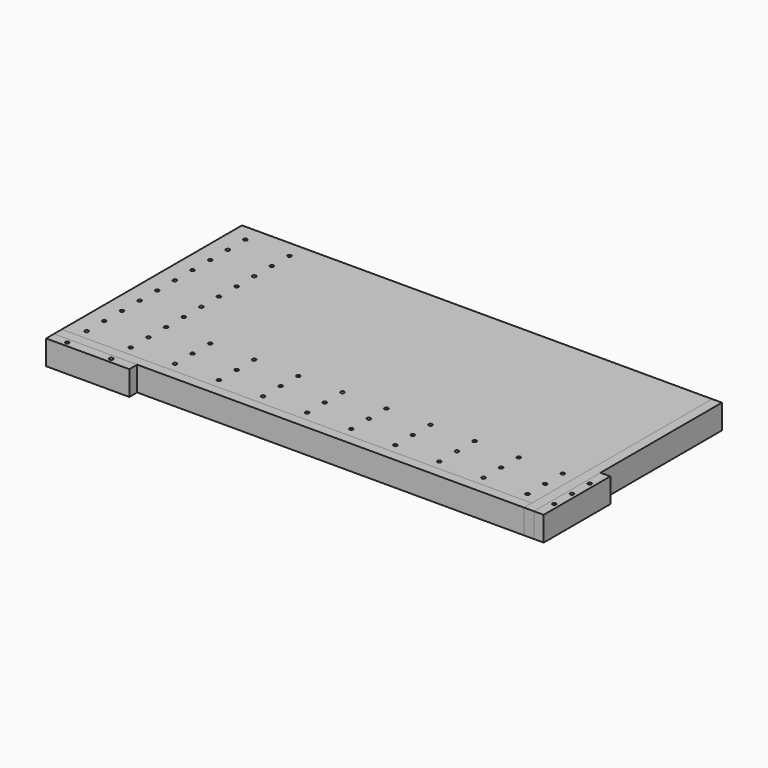
from build123d import *

# Parameters (mm, degrees)
F0_W      = 2438.4
F0_H      = 76.2
F1_DEPTH  = 584.2
F2_W      = 2438.4
F2_H      = 50.8
F3_DEPTH  = 127
F5_DEPTH  = 127
F6_W      = 431.8
F6_H      = 50.8
F7_DEPTH  = 127
F8_W      = 50.8
F8_H      = 431.8
F9_DEPTH  = 127
F10_R     = 9.525
F11_DEPTH = 76.2
F12_R     = 9.525
F13_DEPTH = 127
F14_R     = 9.525
F15_DEPTH = 127


with BuildPart() as f1:
    # F0 (on Front) → F1 (new body, symmetric)
    with BuildSketch(Plane.XZ):
        Rectangle(F0_W, F0_H)
    extrude(amount=F1_DEPTH, both=True)

    # F10 (on face) → F11 (cut)
    with BuildSketch(Plane.XY.offset(38.1)):
        with Locations((-1130.3, -533.4)):
            Circle(F10_R)
        with Locations((-1130.3, -419.1)):
            Circle(F10_R)
        with Locations((-1130.3, -304.8)):
            Circle(F10_R)
        with Locations((-1130.3, -190.5)):
            Circle(F10_R)
        with Locations((-1130.3, -76.2)):
            Circle(F10_R)
        with Locations((-1130.3, 38.1)):
            Circle(F10_R)
        with Locations((-1130.3, 152.4)):
            Circle(F10_R)
        with Locations((-1130.3, 266.7)):
            Circle(F10_R)
        with Locations((-1130.3, 381)):
            Circle(F10_R)
        with Locations((-1130.3, 495.3)):
            Circle(F10_R)
        with Locations((-901.7, -533.4)):
            Circle(F10_R)
        with Locations((-901.7, -419.1)):
            Circle(F10_R)
        with Locations((-901.7, -304.8)):
            Circle(F10_R)
        with Locations((-901.7, -190.5)):
            Circle(F10_R)
        with Locations((-901.7, -76.2)):
            Circle(F10_R)
        with Locations((-901.7, 38.1)):
            Circle(F10_R)
        with Locations((-901.7, 152.4)):
            Circle(F10_R)
        with Locations((-901.7, 266.7)):
            Circle(F10_R)
        with Locations((-901.7, 381)):
            Circle(F10_R)
        with Locations((-901.7, 495.3)):
            Circle(F10_R)
        with Locations((-673.1, -533.4)):
            Circle(F10_R)
        with Locations((-673.1, -419.1)):
            Circle(F10_R)
        with Locations((-673.1, -304.8)):
            Circle(F10_R)
        with Locations((-444.5, -533.4)):
            Circle(F10_R)
        with Locations((-444.5, -419.1)):
            Circle(F10_R)
        with Locations((-444.5, -304.8)):
            Circle(F10_R)
        with Locations((-215.9, -533.4)):
            Circle(F10_R)
        with Locations((-215.9, -419.1)):
            Circle(F10_R)
        with Locations((-215.9, -304.8)):
            Circle(F10_R)
        with Locations((12.7, -533.4)):
            Circle(F10_R)
        with Locations((12.7, -419.1)):
            Circle(F10_R)
        with Locations((12.7, -304.8)):
            Circle(F10_R)
        with Locations((241.3, -533.4)):
            Circle(F10_R)
        with Locations((241.3, -419.1)):
            Circle(F10_R)
        with Locations((241.3, -304.8)):
            Circle(F10_R)
        with Locations((469.9, -533.4)):
            Circle(F10_R)
        with Locations((469.9, -419.1)):
            Circle(F10_R)
        with Locations((469.9, -304.8)):
            Circle(F10_R)
        with Locations((698.5, -533.4)):
            Circle(F10_R)
        with Locations((698.5, -419.1)):
            Circle(F10_R)
        with Locations((698.5, -304.8)):
            Circle(F10_R)
        with Locations((927.1, -533.4)):
            Circle(F10_R)
        with Locations((927.1, -419.1)):
            Circle(F10_R)
        with Locations((927.1, -304.8)):
            Circle(F10_R)
        with Locations((1155.7, -533.4)):
            Circle(F10_R)
        with Locations((1155.7, -419.1)):
            Circle(F10_R)
        with Locations((1155.7, -304.8)):
            Circle(F10_R)
    extrude(amount=-F11_DEPTH, mode=Mode.SUBTRACT)


with BuildPart() as f3:
    # F2 (on face) → F3 (new body)
    with BuildSketch(Plane.XY.offset(38.1)):
        with Locations((0, -609.6)):
            Rectangle(F2_W, F2_H)
    extrude(amount=-F3_DEPTH)


with BuildPart() as f5:
    # F4 (on face) → F5 (new body)
    with BuildSketch(Plane.XY.offset(38.1)):
        Polygon((1219.2, 584.2), (1219.2, -584.2), (1219.2, -635), (1270, -635), (1270, 584.2), align=None)
    extrude(amount=-F5_DEPTH)


with BuildPart() as f7:
    # F6 (on face) → F7 (new body)
    with BuildSketch(Plane.XY.offset(38.1)):
        with Locations((-1003.3, -660.4)):
            Rectangle(F6_W, F6_H)
    extrude(amount=-F7_DEPTH)

    # F12 (on face) → F13 (cut)
    with BuildSketch(Plane.XY.offset(38.1)):
        with Locations((-1130.3, -660.4)):
            Circle(F12_R)
        with Locations((-901.7, -660.4)):
            Circle(F12_R)
    extrude(amount=-F13_DEPTH, mode=Mode.SUBTRACT)


with BuildPart() as f9:
    # F8 (on face) → F9 (new body)
    with BuildSketch(Plane.XY.offset(38.1)):
        with Locations((1295.4, -419.1)):
            Rectangle(F8_W, F8_H)
    extrude(amount=-F9_DEPTH)

    # F14 (on face) → F15 (cut)
    with BuildSketch(Plane.XY.offset(38.1)):
        with Locations((1295.4, -533.4)):
            Circle(F14_R)
        with Locations((1295.4, -419.1)):
            Circle(F14_R)
        with Locations((1295.4, -304.8)):
            Circle(F14_R)
    extrude(amount=-F15_DEPTH, mode=Mode.SUBTRACT)


solid = Compound([f1.part, f3.part, f5.part, f7.part, f9.part])
